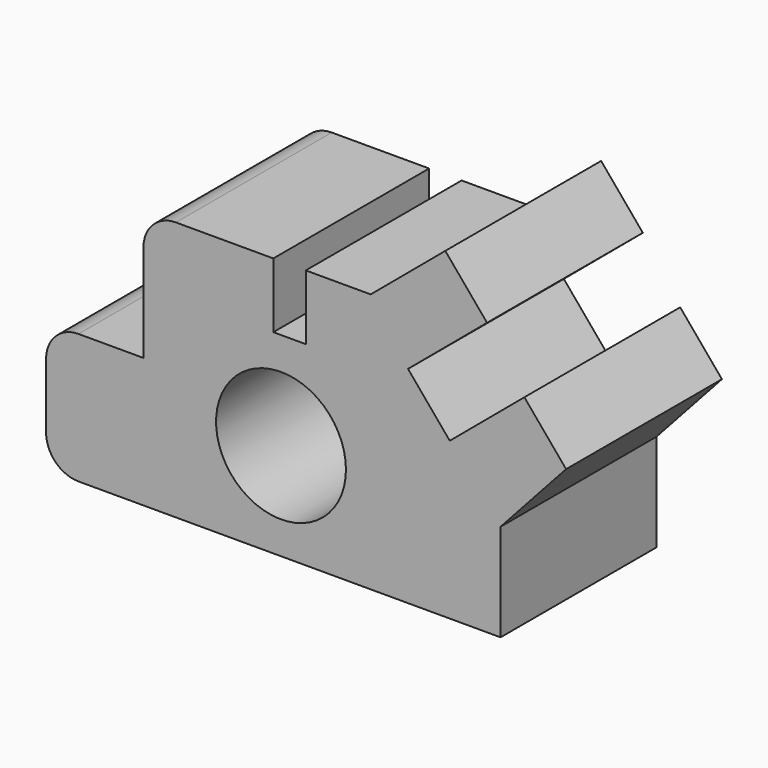
from build123d import *

# Parameters (mm, degrees)
F0_R     = 10
F1_DEPTH = 30


with BuildPart() as f1:
    # F0 (on Front) → F1 (new body)
    with BuildSketch(Plane.XZ):
        with BuildLine():
            ThreePointArc((-38.37657, -29.162996), (-36.912104, -32.698529), (-33.37657, -34.162996))
            Line((-33.37657, -34.162996), (31.62343, -34.162996))
            Line((31.62343, -34.162996), (31.62343, -19.162996))
            Line((31.62343, -19.162996), (41.720804, -8.070519))
            Line((41.720804, -8.070519), (35.292928, -0.410074))
            Line((35.292928, -0.410074), (23.802262, -10.051889))
            Line((23.802262, -10.051889), (17.374386, -2.391444))
            Line((17.374386, -2.391444), (29.541973, 7.818374))
            Line((29.541973, 7.818374), (23.114097, 15.478819))
            Line((23.114097, 15.478819), (11.62343, 5.837004))
            Line((11.62343, 5.837004), (1.62343, 5.837004))
            Line((1.62343, 5.837004), (1.62343, -4.162996))
            Line((1.62343, -4.162996), (-3.37657, -4.162996))
            Line((-3.37657, -4.162996), (-3.37657, 5.837004))
            Line((-3.37657, 5.837004), (-18.37657, 5.837004))
            ThreePointArc((-18.37657, 5.837004), (-21.912104, 4.372538), (-23.37657, 0.837004))
            Line((-23.37657, 0.837004), (-23.37657, -14.162996))
            Line((-23.37657, -14.162996), (-33.37657, -14.162996))
            ThreePointArc((-33.37657, -14.162996), (-36.912104, -15.627462), (-38.37657, -19.162996))
            Line((-38.37657, -19.162996), (-38.37657, -29.162996))
        make_face()
        with Locations((-2.191618, -19.162996)):
            Circle(F0_R, mode=Mode.SUBTRACT)
    extrude(amount=F1_DEPTH)


solid = f1.part
